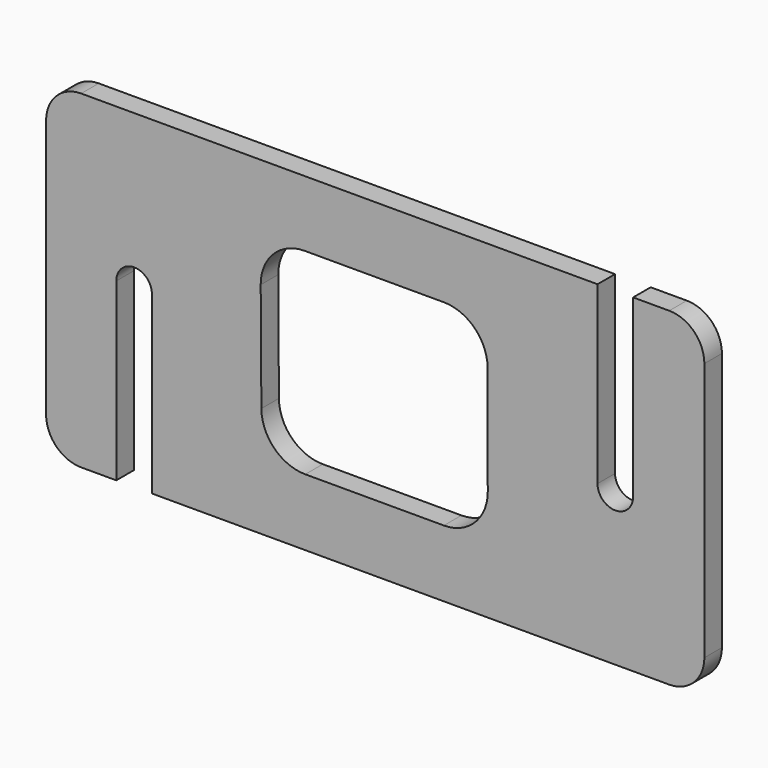
from build123d import *

# Parameters (mm, degrees)
F1_DEPTH = 5
F3_DEPTH = 25
F5_DEPTH = 73
F7_DEPTH = 25


with BuildPart() as f1:
    # F0 (on Front) → F1 (new body)
    with BuildSketch(Plane.XZ):
        with BuildLine():
            ThreePointArc((-66.9997713815, 36.9462131122), (-72.656625631, 34.6030673617), (-74.9997713815, 28.9462131122))
            Line((-74.9997713815, 28.9462131122), (-74.9997713815, -30.0537868878))
            ThreePointArc((-74.9997713815, -30.0537868878), (-72.656625631, -35.7106411373), (-66.9997713815, -38.0537868878))
            Line((-66.9997713815, -38.0537868878), (67.0002286185, -38.0537868878))
            ThreePointArc((67.0002286185, -38.0537868878), (72.657082868, -35.7106411373), (75.0002286185, -30.0537868878))
            Line((75.0002286185, -30.0537868878), (75.0002286185, 28.9462131122))
            ThreePointArc((75.0002286185, 28.9462131122), (72.657082868, 34.6030673617), (67.0002286185, 36.9462131122))
            Line((67.0002286185, 36.9462131122), (-66.9997713815, 36.9462131122))
        make_face()
    extrude(amount=F1_DEPTH)

    # F2 (on face) → F3 (cut)
    with BuildSketch(Plane.XZ.offset(5)):
        with BuildLine():
            Line((-58.9997713815, 1.9462131122), (-58.9997713815, -38.0537868878))
            Line((-58.9997713815, -38.0537868878), (-50.8812127065, -38.0537868878))
            Line((-50.8812127065, -38.0537868878), (-50.8812127065, 1.9462131122))
            ThreePointArc((-50.8812127065, 1.9462131122), (-54.940492044, 6.0054924497), (-58.9997713815, 1.9462131122))
        make_face()
    extrude(amount=-F3_DEPTH, mode=Mode.SUBTRACT)

    # F4 (on face) → F5 (cut)
    with BuildSketch(Plane.XZ.offset(5)):
        with BuildLine():
            Line((58.7657689438, -3.0537868878), (58.7657689438, 36.9462131122))
            Line((58.7657689438, 36.9462131122), (50.6537689438, 36.9462131122))
            Line((50.6537689438, 36.9462131122), (50.6537689438, -3.0537868878))
            ThreePointArc((50.6537689438, -3.0537868878), (54.7097689438, -7.1097868878), (58.7657689438, -3.0537868878))
        make_face()
    extrude(amount=-F5_DEPTH, mode=Mode.SUBTRACT)

    # F6 (on face) → F7 (cut)
    with BuildSketch(Plane.XZ.offset(5)):
        with BuildLine():
            ThreePointArc((25.6149837678, 11.9573603601), (22.6821155465, 19.0212209736), (15.6149899808, 21.9462131122))
            Line((15.6149899808, 21.9462131122), (-16.0960132249, 21.9462131122))
            ThreePointArc((-16.0960132249, 21.9462131122), (-23.1889002898, 18.9953941344), (-26.0958222031, 11.8844037291))
            Line((-26.0958222031, 11.8844037291), (-25.942641223, -12.897926457))
            ThreePointArc((-25.942641223, -12.897926457), (-22.992013267, -19.9290041388), (-15.9428322448, -22.8361170739))
            Line((-15.9428322448, -22.8361170739), (15.6426154759, -22.8361170739))
            ThreePointArc((15.6426154759, -22.8361170739), (22.7176233373, -19.9032426395), (25.6426092628, -12.824969826))
            Line((25.6426092628, -12.824969826), (25.6149837678, 11.9573603601))
        make_face()
    extrude(amount=-F7_DEPTH, mode=Mode.SUBTRACT)


solid = f1.part
